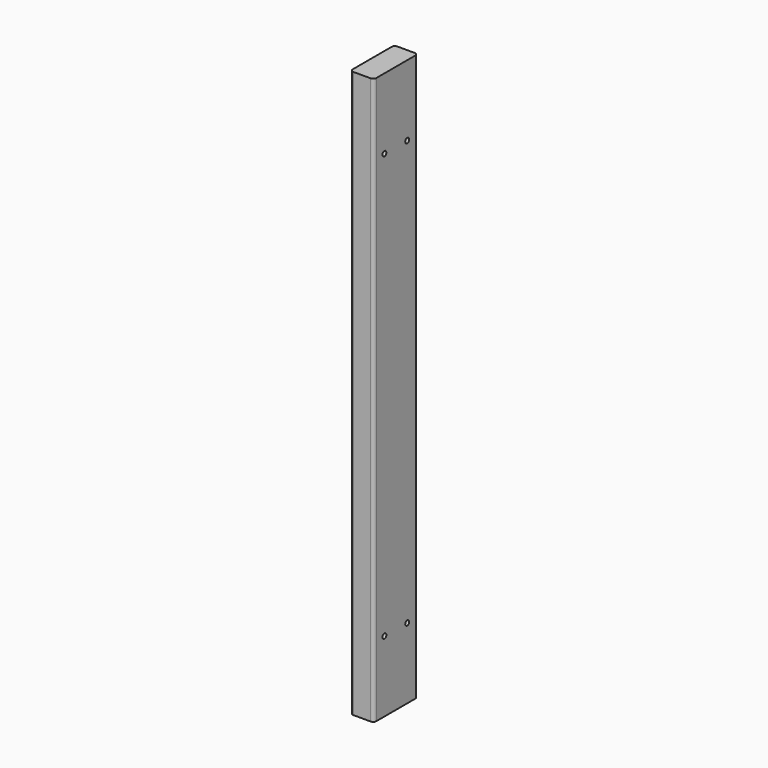
from build123d import *

# Parameters (mm, degrees)
F1_DEPTH = 914.4
F2_R     = 3.96875
F3_DEPTH = 38.101


with BuildPart() as f1:
    # F0 (on Top) → F1 (new body)
    with BuildSketch(Plane.XY):
        with BuildLine():
            ThreePointArc((0, 5), (1.464466, 1.464466), (5, 0))
            Line((5, 0), (33.1, 0))
            ThreePointArc((33.1, 0), (36.635534, 1.464466), (38.1, 5))
            Line((38.1, 5), (38.1, 83.9))
            ThreePointArc((38.1, 83.9), (36.635534, 87.435534), (33.1, 88.9))
            Line((33.1, 88.9), (5, 88.9))
            ThreePointArc((5, 88.9), (1.464466, 87.435534), (0, 83.9))
            Line((0, 83.9), (0, 5))
        make_face()
    extrude(amount=F1_DEPTH)

    # F2 (on face) → F3 (cut, through all)
    with BuildSketch(Plane.YZ.offset(38.1)):
        with Locations((21.43125, 114.3)):
            Circle(F2_R)
        with Locations((67.46875, 114.3)):
            Circle(F2_R)
        with Locations((21.43125, 800.1)):
            Circle(F2_R)
        with Locations((67.46875, 800.1)):
            Circle(F2_R)
    extrude(amount=-F3_DEPTH, mode=Mode.SUBTRACT)


solid = f1.part
